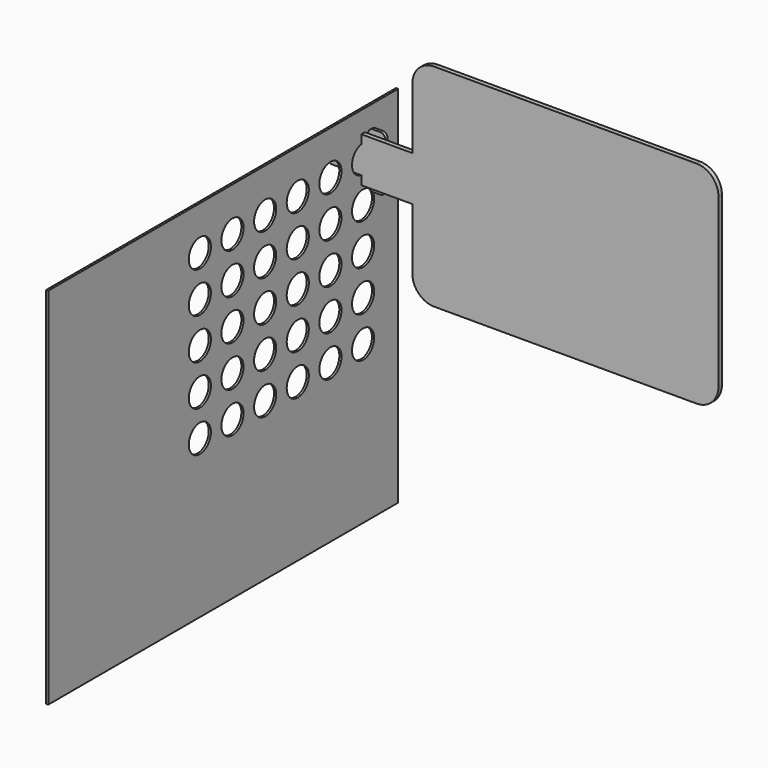
from build123d import *

# Parameters (mm, degrees)
F0_R     = 2.1
F1_DEPTH = 1.5
F3_W     = 300
F3_H     = 250
F3_R     = 9.5
F4_DEPTH = 1.5
F5_R     = 2.1
F6_DEPTH = 2


with BuildPart() as f1:
    # F0 (on Front) → F1 (new body, symmetric)
    with BuildSketch(Plane.XZ):
        with BuildLine():
            Line((-90, -72.5), (90, -72.5))
            ThreePointArc((90, -72.5), (100.6066017178, -68.1066017178), (105, -57.5))
            Line((105, -57.5), (105, 57.5))
            ThreePointArc((105, 57.5), (100.6066017178, 68.1066017178), (90, 72.5))
            Line((90, 72.5), (-90, 72.5))
            ThreePointArc((-90, 72.5), (-100.6066017178, 68.1066017178), (-105, 57.5))
            Line((-105, 57.5), (-105, 15.4))
            Line((-105, 15.4), (-140, 15.4))
            Line((-140, 15.4), (-140, 9.4))
            Line((-140, 9.4), (-160, 9.4))
            ThreePointArc((-160, 9.4), (-163.5355339059, 7.9355339059), (-165, 4.4))
            Line((-165, 4.4), (-165, 0))
            Line((-165, 0), (-165, -4.4))
            ThreePointArc((-165, -4.4), (-163.5355339059, -7.9355339059), (-160, -9.4))
            Line((-160, -9.4), (-140, -9.4))
            Line((-140, -9.4), (-140, -15.4))
            Line((-140, -15.4), (-105, -15.4))
            Line((-105, -15.4), (-105, -57.5))
            ThreePointArc((-105, -57.5), (-100.6066017178, -68.1066017178), (-90, -72.5))
        make_face()
        with Locations((-160, 0)):
            Circle(F0_R, mode=Mode.SUBTRACT)
    extrude(amount=F1_DEPTH, both=True)


with BuildPart() as f4:
    # F3 (on offset) → F4 (new body)
    with BuildSketch(Plane(origin=(-140, 0, 0), x_dir=(0, -1, 0), z_dir=(-1, 0, 0))):
        with Locations((120, -95)):
            Rectangle(F3_W, F3_H)
        with Locations((0, -112)):
            Circle(F3_R, mode=Mode.SUBTRACT)
        with Locations((28, -112)):
            Circle(F3_R, mode=Mode.SUBTRACT)
        with Locations((56, -112)):
            Circle(F3_R, mode=Mode.SUBTRACT)
        with Locations((84, -112)):
            Circle(F3_R, mode=Mode.SUBTRACT)
        with Locations((112, -112)):
            Circle(F3_R, mode=Mode.SUBTRACT)
        with Locations((140, -112)):
            Circle(F3_R, mode=Mode.SUBTRACT)
        with Locations((0, -84)):
            Circle(F3_R, mode=Mode.SUBTRACT)
        with Locations((28, -84)):
            Circle(F3_R, mode=Mode.SUBTRACT)
        with Locations((0, -56)):
            Circle(F3_R, mode=Mode.SUBTRACT)
        with Locations((28, -56)):
            Circle(F3_R, mode=Mode.SUBTRACT)
        with Locations((56, -84)):
            Circle(F3_R, mode=Mode.SUBTRACT)
        with Locations((84, -84)):
            Circle(F3_R, mode=Mode.SUBTRACT)
        with Locations((112, -84)):
            Circle(F3_R, mode=Mode.SUBTRACT)
        with Locations((56, -56)):
            Circle(F3_R, mode=Mode.SUBTRACT)
        with Locations((84, -56)):
            Circle(F3_R, mode=Mode.SUBTRACT)
        with Locations((112, -56)):
            Circle(F3_R, mode=Mode.SUBTRACT)
        with Locations((0, -28)):
            Circle(F3_R, mode=Mode.SUBTRACT)
        with Locations((28, -28)):
            Circle(F3_R, mode=Mode.SUBTRACT)
        Circle(F3_R, mode=Mode.SUBTRACT)
        with Locations((28, 0)):
            Circle(F3_R, mode=Mode.SUBTRACT)
        with Locations((56, -28)):
            Circle(F3_R, mode=Mode.SUBTRACT)
        with Locations((84, -28)):
            Circle(F3_R, mode=Mode.SUBTRACT)
        with Locations((112, -28)):
            Circle(F3_R, mode=Mode.SUBTRACT)
        with Locations((56, 0)):
            Circle(F3_R, mode=Mode.SUBTRACT)
        with Locations((84, 0)):
            Circle(F3_R, mode=Mode.SUBTRACT)
        with Locations((112, 0)):
            Circle(F3_R, mode=Mode.SUBTRACT)
        with Locations((140, -84)):
            Circle(F3_R, mode=Mode.SUBTRACT)
        with Locations((140, -56)):
            Circle(F3_R, mode=Mode.SUBTRACT)
        with Locations((140, -28)):
            Circle(F3_R, mode=Mode.SUBTRACT)
        with Locations((140, 0)):
            Circle(F3_R, mode=Mode.SUBTRACT)
    extrude(amount=F4_DEPTH)


with BuildPart() as f6:
    # F5 (on face) → F6 (new body)
    with BuildSketch(Plane(origin=(0, 1.5, 0), x_dir=(-1, 0, 0), z_dir=(0, 1, 0))):
        with BuildLine():
            Line((141.5, 7.9), (139.5, 7.9))
            Line((139.5, 7.9), (137.5638327285, 16.4191359947))
            ThreePointArc((137.5638327285, 16.4191359947), (136.4442189356, 18.2037319241), (134.4558707661, 18.9))
            Line((134.4558707661, 18.9), (129.3098824649, 18.9))
            ThreePointArc((129.3098824649, 18.9), (126.969442129, 17.930557871), (126, 15.5901175351))
            Line((126, 15.5901175351), (126, 8.0043432127))
            ThreePointArc((126, 8.0043432127), (126.4399163754, 6.7528884255), (127.5661390844, 6.0519690924))
            Line((127.5661390844, 6.0519690924), (134.7856835417, 4.4476258796))
            ThreePointArc((134.7856835417, 4.4476258796), (135.0013109135, 4.4119421235), (135.2195444573, 4.4))
            Line((135.2195444573, 4.4), (153, 4.4))
            ThreePointArc((153, 4.4), (154.4142135624, 3.8142135624), (155, 2.4))
            Line((155, 2.4), (155, 0))
            Line((155, 0), (155, -2.4))
            ThreePointArc((155, -2.4), (154.4142135624, -3.8142135624), (153, -4.4))
            Line((153, -4.4), (135.2195444573, -4.4))
            ThreePointArc((135.2195444573, -4.4), (135.0013109135, -4.4119421235), (134.7856835417, -4.4476258796))
            Line((134.7856835417, -4.4476258796), (127.5661390844, -6.0519690924))
            ThreePointArc((127.5661390844, -6.0519690924), (126.4399163754, -6.7528884255), (126, -8.0043432127))
            Line((126, -8.0043432127), (126, -15.5901175351))
            ThreePointArc((126, -15.5901175351), (126.969442129, -17.930557871), (129.3098824649, -18.9))
            Line((129.3098824649, -18.9), (134.4558707661, -18.9))
            ThreePointArc((134.4558707661, -18.9), (136.4442189356, -18.2037319241), (137.5638327285, -16.4191359947))
            Line((137.5638327285, -16.4191359947), (139.5, -7.9))
            Line((139.5, -7.9), (141.5, -7.9))
            Line((141.5, -7.9), (142, -10.4))
            Line((142, -10.4), (145, -10.4))
            Line((145, -10.4), (154, -8.4))
            Line((154, -8.4), (161, -8.4))
            ThreePointArc((161, -8.4), (163.8284271247, -7.2284271247), (165, -4.4))
            Line((165, -4.4), (165, 0))
            Line((165, 0), (165, 4.4))
            ThreePointArc((165, 4.4), (163.8284271247, 7.2284271247), (161, 8.4))
            Line((161, 8.4), (154, 8.4))
            Line((154, 8.4), (145, 10.4))
            Line((145, 10.4), (142, 10.4))
            Line((142, 10.4), (141.5, 7.9))
        make_face()
        with Locations((160, 0)):
            Circle(F5_R, mode=Mode.SUBTRACT)
    extrude(amount=F6_DEPTH)


solid = Compound([f1.part, f4.part, f6.part])
